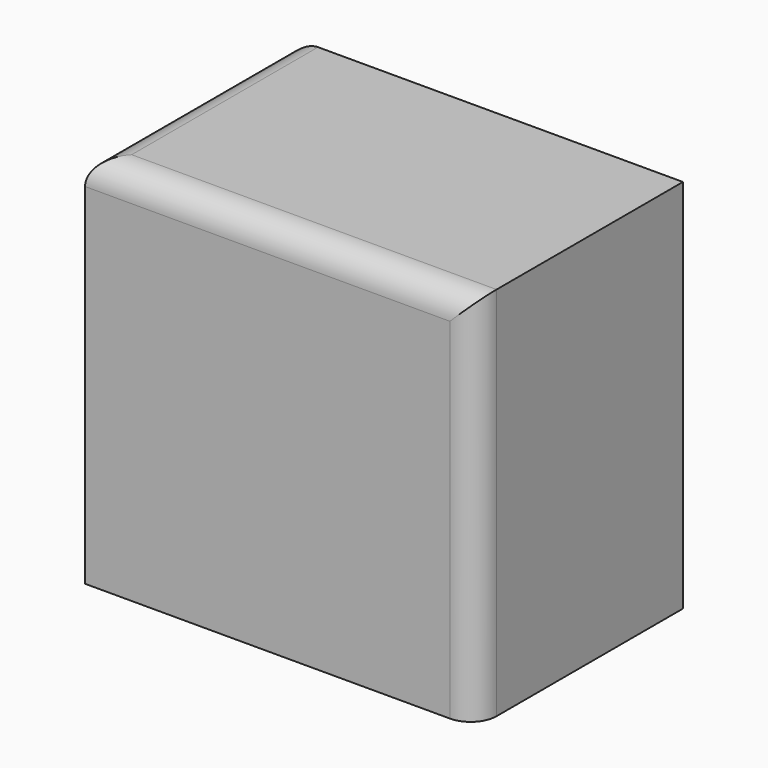
from build123d import *

# Parameters (mm, degrees)
F0_W     = 76.702643
F0_H     = 73.727116
F1_DEPTH = 25.4
F2_R     = 5.08


with BuildPart() as f1:
    # F0 (on Front) → F1 (new body, symmetric)
    with BuildSketch(Plane.XZ):
        with Locations((-4.513773, 12.29101)):
            Rectangle(F0_W, F0_H)
    extrude(amount=F1_DEPTH, both=True)

    # F2
    f2_edges = [f1.edges().sort_by_distance(p)[0] for p in [
        (33.837549, -25.4, 12.29101),
        (-4.513772, -25.4, 49.154568),
        (-42.865094, 0, 49.154568),
        (-42.865094, 25.4, 12.29101),
    ]]
    fillet(f2_edges, radius=F2_R)


solid = f1.part
